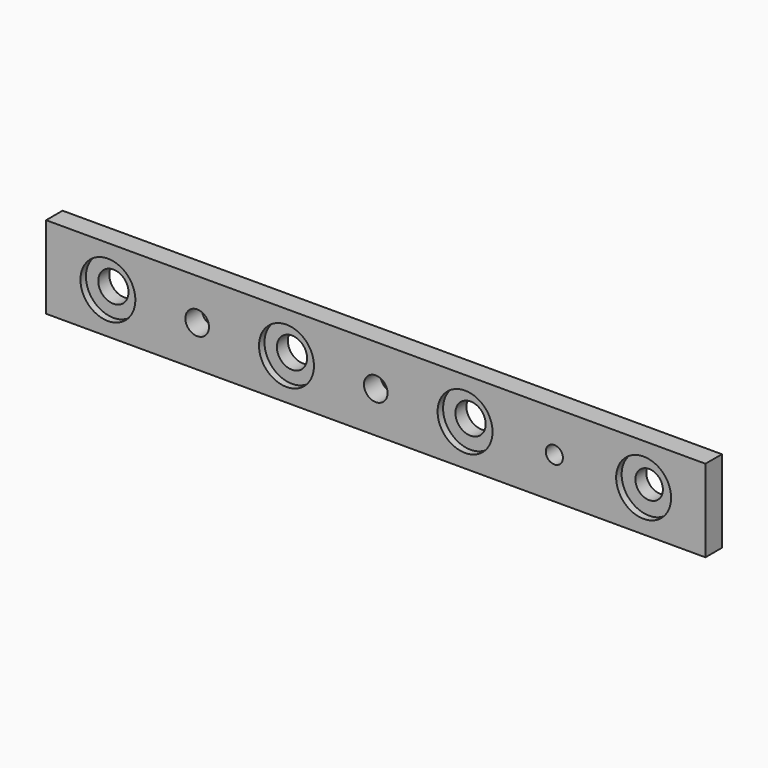
from build123d import *

# Parameters (mm, degrees)
F0_W     = 304.8
F0_H     = 38.1
F0_R     = 6.985
F0_R_2   = 6.35
F1_DEPTH = 9.525
F2_R     = 5.461
F2_R_2   = 3.96875
F3_DEPTH = 9.526
F2_R_3   = 12.7
F2_R_4   = 6.985
F2_R_5   = 6.35
F4_DEPTH = 3.175


with BuildPart() as f1:
    # F0 (on Front) → F1 (new body)
    with BuildSketch(Plane.XZ):
        with Locations((152.4, 19.05)):
            Rectangle(F0_W, F0_H)
        with Locations((28.575, 19.05)):
            Circle(F0_R, mode=Mode.SUBTRACT)
        with Locations((111.125, 19.05)):
            Circle(F0_R, mode=Mode.SUBTRACT)
        with Locations((193.675, 19.05)):
            Circle(F0_R, mode=Mode.SUBTRACT)
        with Locations((276.225, 19.05)):
            Circle(F0_R_2, mode=Mode.SUBTRACT)
    extrude(amount=F1_DEPTH)

    # F2 (on face) → F3 (cut, through all)
    with BuildSketch(Plane.XZ.offset(9.525)):
        with Locations((69.85, 19.05)):
            Circle(F2_R)
        with Locations((152.4, 19.05)):
            Circle(F2_R)
        with Locations((234.95, 19.05)):
            Circle(F2_R_2)
    extrude(amount=-F3_DEPTH, mode=Mode.SUBTRACT)

    # F2 (on face) → F4 (cut)
    with BuildSketch(Plane.XZ.offset(9.525)):
        with Locations((28.575, 19.05)):
            Circle(F2_R_3)
        with Locations((28.575, 19.05)):
            Circle(F2_R_4, mode=Mode.SUBTRACT)
        with Locations((111.125, 19.05)):
            Circle(F2_R_3)
        with Locations((111.125, 19.05)):
            Circle(F2_R_4, mode=Mode.SUBTRACT)
        with Locations((193.675, 19.05)):
            Circle(F2_R_3)
        with Locations((193.675, 19.05)):
            Circle(F2_R_4, mode=Mode.SUBTRACT)
        with Locations((276.225, 19.05)):
            Circle(F2_R_3)
        with Locations((276.225, 19.05)):
            Circle(F2_R_5, mode=Mode.SUBTRACT)
    extrude(amount=-F4_DEPTH, mode=Mode.SUBTRACT)


solid = f1.part
